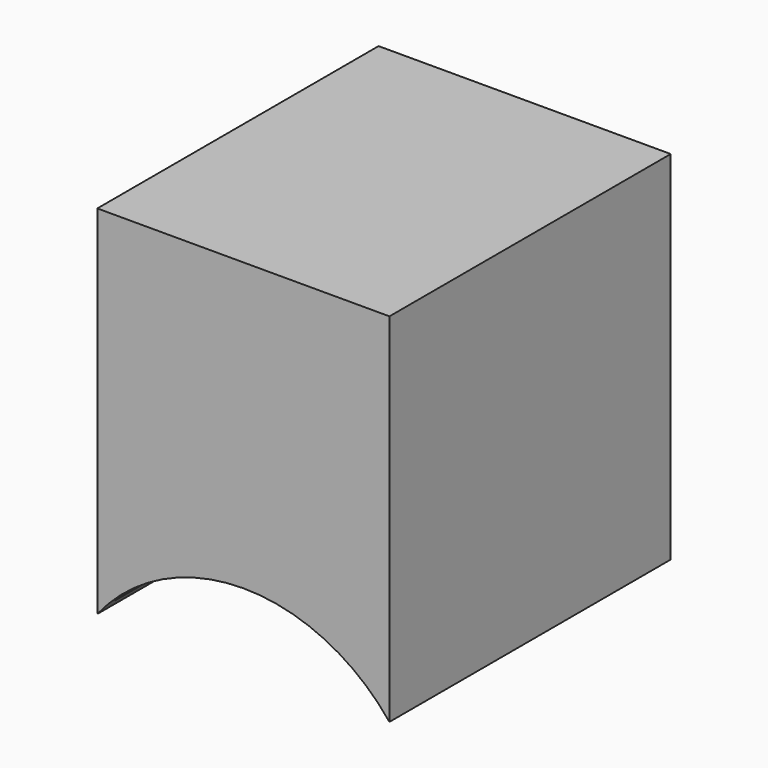
from build123d import *

# Parameters (mm, degrees)
F1_DEPTH = 101.6
F2_T     = -2.54


with BuildPart() as f1:
    # F0 (on Front) → F1 (new body)
    with BuildSketch(Plane.XZ):
        with BuildLine():
            Line((39.729103, 49.523432), (-44.695243, 49.523432))
            Line((-44.695243, 49.523432), (-44.695243, -53.661879))
            ThreePointArc((-44.695243, -53.661879), (-2.48307, -33.383303), (39.729103, -53.661879))
            Line((39.729103, -53.661879), (39.729103, 49.523432))
        make_face()
    extrude(amount=F1_DEPTH)

    # F2
    f2_openings = [f1.faces().sort_by_distance(p)[0] for p in [
        (-2.48307, -50.8, -33.383303),
    ]]
    offset(amount=F2_T, openings=f2_openings)


solid = f1.part
